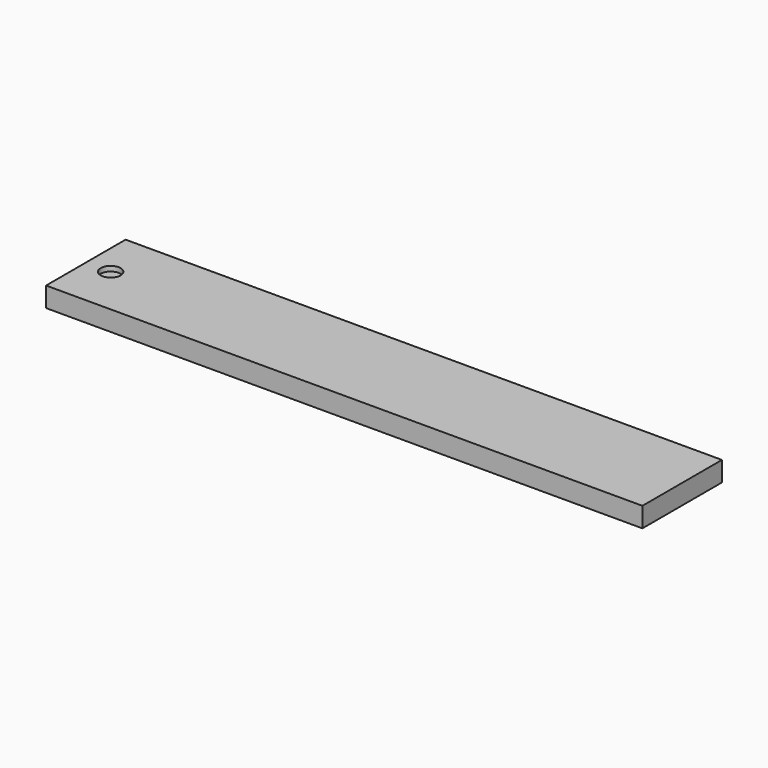
from build123d import *

# Parameters (mm, degrees)
F0_W     = 1524
F0_H     = 254
F1_DEPTH = 25.4
F2_R     = 25.4
F3_DEPTH = 12.7


with BuildPart() as f1:
    # F0 (on Top) → F1 (new body, symmetric)
    with BuildSketch(Plane.XY):
        with Locations((631.803309, 98.702285)):
            Rectangle(F0_W, F0_H)
    extrude(amount=F1_DEPTH, both=True)

    # F2 (on face) → F3 (cut)
    with BuildSketch(Plane.XY.offset(25.4)):
        with Locations((-66.696691, 98.702285)):
            Circle(F2_R)
    extrude(amount=-F3_DEPTH, mode=Mode.SUBTRACT)


solid = f1.part
